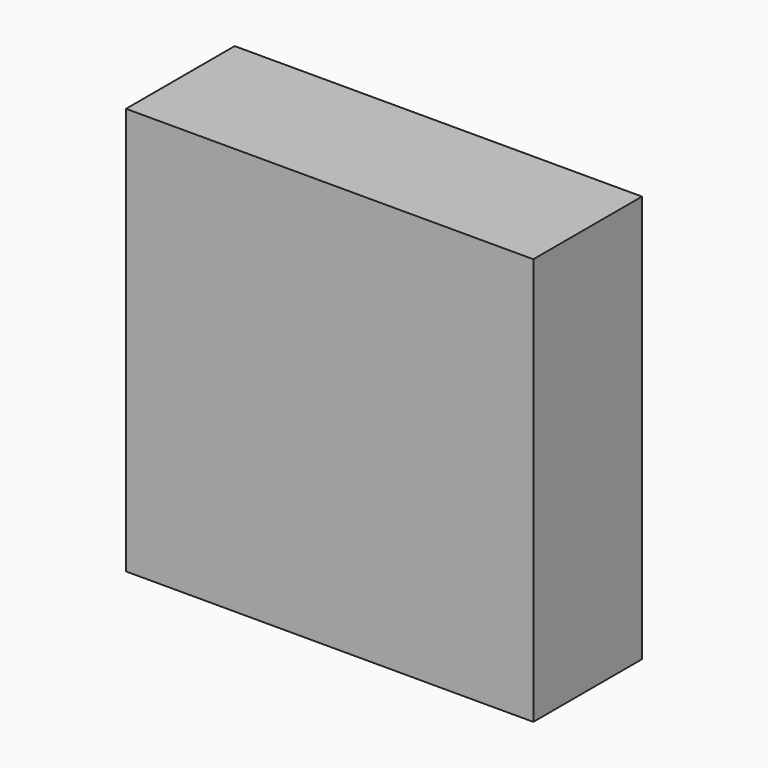
from build123d import *

# Parameters (mm, degrees)
F0_W     = 30
F0_H     = 30
F1_DEPTH = 10


with BuildPart() as f1:
    # F0 (on Front) → F1 (new body)
    with BuildSketch(Plane.XZ):
        with Locations((15, 15)):
            Rectangle(F0_W, F0_H)
    extrude(amount=-F1_DEPTH)

    # F3 (on Top) → F4 (revolve)
    with BuildSketch(Plane.XY):
        Polygon((22, 20), (22, 10), (26, 10), align=None)
    revolve(axis=Axis((22, 15, 0), (0, 1, 0)))


solid = f1.part
